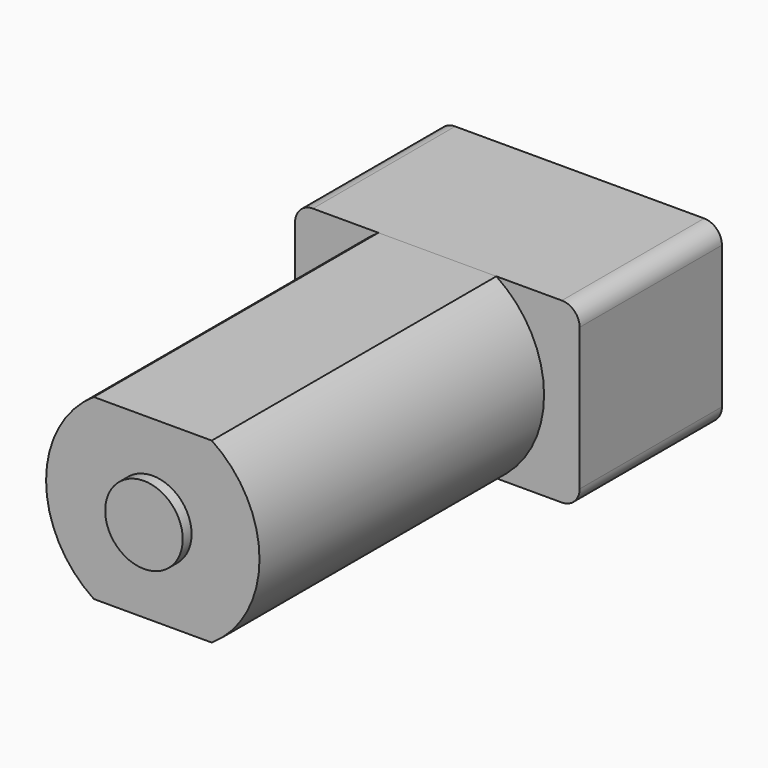
from build123d import *

# Parameters (mm, degrees)
F0_R     = 2.7686
F1_DEPTH = 25.4
F2_DEPTH = 0.7874
F4_DEPTH = 12.7
F5_R     = 1.27
F6_DEPTH = 4.572
F7_R     = 0.508


with BuildPart() as f1:
    # F0 (on Front) → F1 (new body)
    with BuildSketch(Plane.XZ):
        with BuildLine():
            Line((4.2121134838, 6.35), (-4.2121134838, 6.35))
            ThreePointArc((-4.2121134838, 6.35), (-7.62, 0), (-4.2121134838, -6.35))
            Line((-4.2121134838, -6.35), (4.2121134838, -6.35))
            ThreePointArc((4.2121134838, -6.35), (7.62, 0), (4.2121134838, 6.35))
        make_face()
        Circle(F0_R, mode=Mode.SUBTRACT)
        Circle(F0_R)
    extrude(amount=-F1_DEPTH)

    # F0 (on Front) → F2 (join)
    with BuildSketch(Plane.XZ):
        Circle(F0_R)
    extrude(amount=F2_DEPTH)


with BuildPart() as f4:
    # F3 (on face) → F4 (new body)
    with BuildSketch(Plane(origin=(0, 25.4, 0), x_dir=(-1, 0, 0), z_dir=(0, 1, 0))):
        with BuildLine():
            Line((8.89, 6.35), (4.2121134838, 6.35))
            ThreePointArc((4.2121134838, 6.35), (7.62, 0), (4.2121134838, -6.35))
            Line((4.2121134838, -6.35), (8.89, -6.35))
            ThreePointArc((8.89, -6.35), (9.7880256121, -5.9780256121), (10.16, -5.08))
            Line((10.16, -5.08), (10.16, 5.08))
            ThreePointArc((10.16, 5.08), (9.7880256121, 5.9780256121), (8.89, 6.35))
        make_face()
        with BuildLine():
            ThreePointArc((4.2121134838, -6.35), (7.62, 0), (4.2121134838, 6.35))
            Line((4.2121134838, 6.35), (-4.2121134838, 6.35))
            ThreePointArc((-4.2121134838, 6.35), (-7.62, 0), (-4.2121134838, -6.35))
            Line((-4.2121134838, -6.35), (4.2121134838, -6.35))
        make_face()
        with BuildLine():
            ThreePointArc((-4.2121134838, -6.35), (-7.62, 0), (-4.2121134838, 6.35))
            Line((-4.2121134838, 6.35), (-8.89, 6.35))
            ThreePointArc((-8.89, 6.35), (-9.7880256121, 5.9780256121), (-10.16, 5.08))
            Line((-10.16, 5.08), (-10.16, -5.08))
            ThreePointArc((-10.16, -5.08), (-9.7880256121, -5.9780256121), (-8.89, -6.35))
            Line((-8.89, -6.35), (-4.2121134838, -6.35))
        make_face()
    extrude(amount=F4_DEPTH)

    # F5 (on face) → F6 (join)
    with BuildSketch(Plane(origin=(0, 38.1, 0), x_dir=(-1, 0, 0), z_dir=(0, 1, 0))):
        Circle(F5_R)
    extrude(amount=F6_DEPTH)

    # F7
    f7_edges = [f4.edges().sort_by_distance(p)[0] for p in [
        (1.27, 42.672, 0),
    ]]
    fillet(f7_edges, radius=F7_R)


solid = Compound([f1.part, f4.part])
